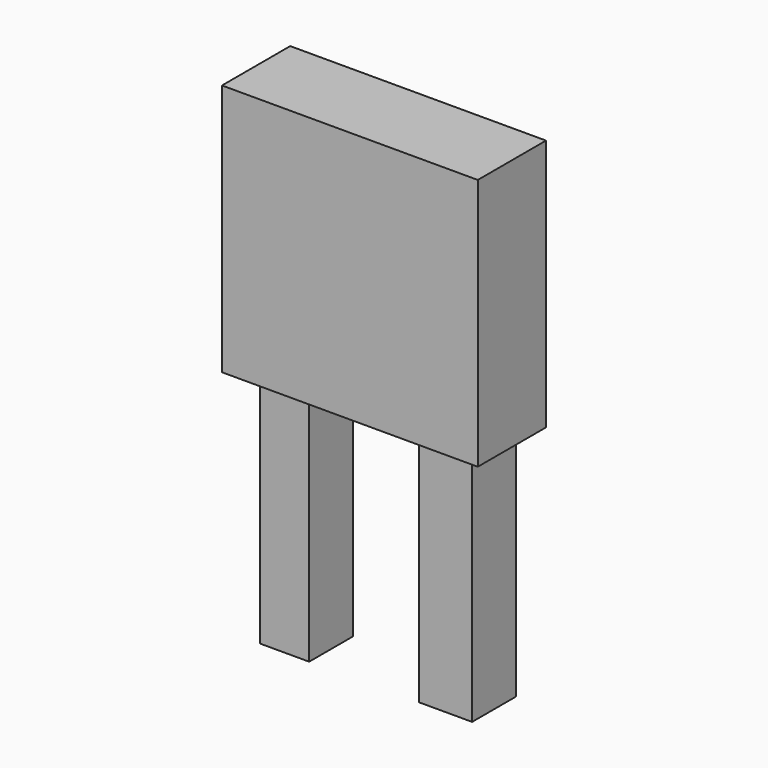
from build123d import *

# Parameters (mm, degrees)
F0_W     = 5.150944
F0_H     = 5.745283
F0_W_2   = 5.547169
F1_DEPTH = 25
F2_W     = 26.745285
F2_H     = 8.915094
F3_DEPTH = 26.4


with BuildPart() as f1:
    # F0 (on Top) → F1 (new body)
    with BuildSketch(Plane.XY):
        with Locations((-28.33019, 11.490566)):
            Rectangle(F0_W, F0_H)
        with Locations((-11.490566, 11.490566)):
            Rectangle(F0_W_2, F0_H)
    extrude(amount=F1_DEPTH)


with BuildPart() as f3:
    # F2 (on face) → F3 (new body)
    with BuildSketch(Plane.XY.offset(25)):
        with Locations((-19.910379, 11.09434)):
            Rectangle(F2_W, F2_H)
    extrude(amount=F3_DEPTH)


solid = Compound([f1.part, f3.part])
